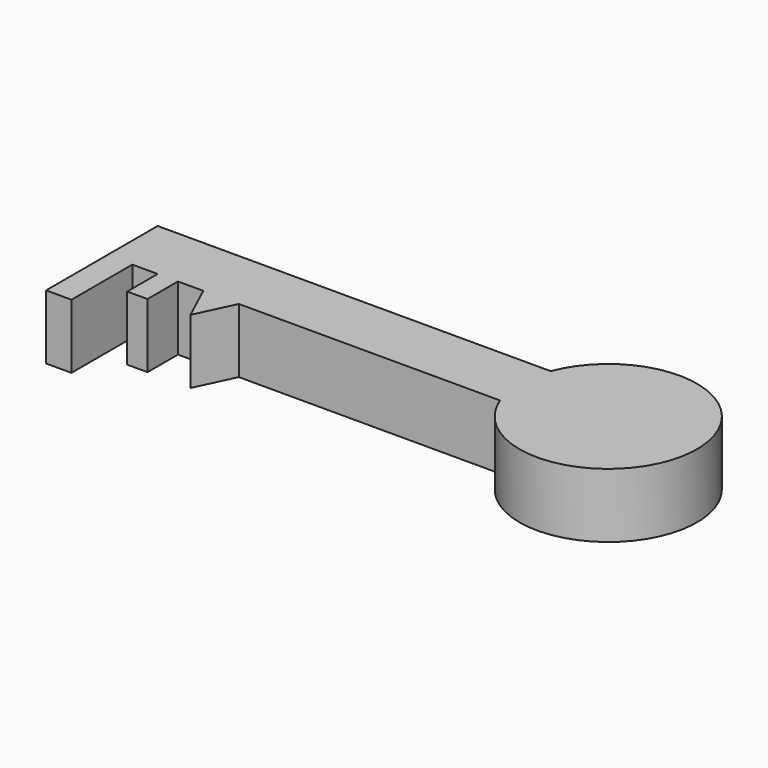
from build123d import *

# Parameters (mm, degrees)
F0_R     = 17.5
F0_W     = 10
F0_H     = 30
F0_W_2   = 8
F0_H_2   = 15
F1_DEPTH = 25.4


with BuildPart() as f1:
    # F0 (on Top) → F1 (new body)
    with BuildSketch(Plane.XY):
        Polygon((96.7858138128, 1.0294117647), (96.7858138128, 26.0294117647), (-58.2141861872, 26.0294117647), (-58.2141861872, 1.0294117647), (-48.2141861872, 1.0294117647), (-38.2141861872, 1.0294117647), (-30.2141861872, 1.0294117647), (-20.2141861872, 1.0294117647), (-6.2141861872, 1.0294117647), align=None)
        with BuildLine():
            ThreePointArc((96.7858138128, 1.0294117647), (164.4775558894, 13.5294117647), (96.7858138128, 26.0294117647))
            Line((96.7858138128, 26.0294117647), (96.7858138128, 1.0294117647))
        make_face()
        with Locations((129.4775558894, 13.5294117647)):
            Circle(F0_R, mode=Mode.SUBTRACT)
        with Locations((129.4775558894, 13.5294117647)):
            Circle(F0_R)
        with Locations((-53.2141861872, -13.9705882353)):
            Rectangle(F0_W, F0_H)
        with Locations((-34.2141861872, -6.4705882353)):
            Rectangle(F0_W_2, F0_H_2)
        Polygon((-13.3046329277, -13.9705882353), (-6.2141861872, 1.0294117647), (-20.2141861872, 1.0294117647), align=None)
    extrude(amount=F1_DEPTH)


solid = f1.part
